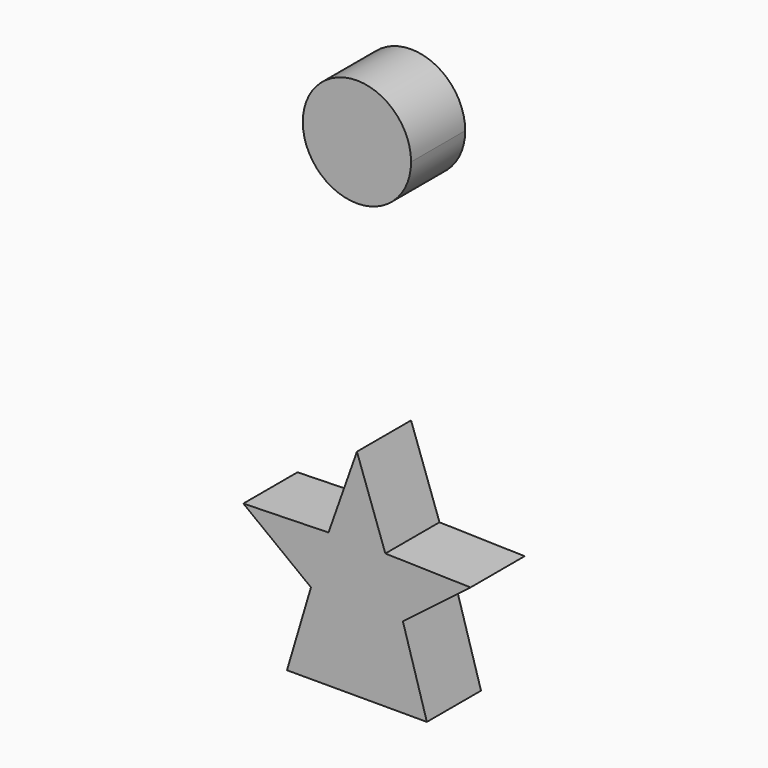
from build123d import *

# Parameters (mm, degrees)
F1_DEPTH = 1.5875


with BuildPart() as f1:
    # F0 (on Front) → F1 (new body, symmetric)
    with BuildSketch(Plane.XZ):
        Polygon((-3.28168, 38.27145), (-0.10668, 38.27145), (3.28168, 38.27145), (2.15646, 42.06113), (5.32892, 44.49191), (1.3335, 44.59351), (0, 48.36795), (-1.3335, 44.59351), (-5.32892, 44.49191), (-2.15646, 42.06113), align=None)
        with BuildLine():
            ThreePointArc((2.54, 61.15939), (0, 63.69939), (-2.54, 61.15939))
            ThreePointArc((-2.54, 61.15939), (-1.796051, 59.363339), (0, 58.61939))
            ThreePointArc((0, 58.61939), (1.796051, 59.363339), (2.54, 61.15939))
        make_face()
    extrude(amount=F1_DEPTH, both=True)


solid = f1.part
